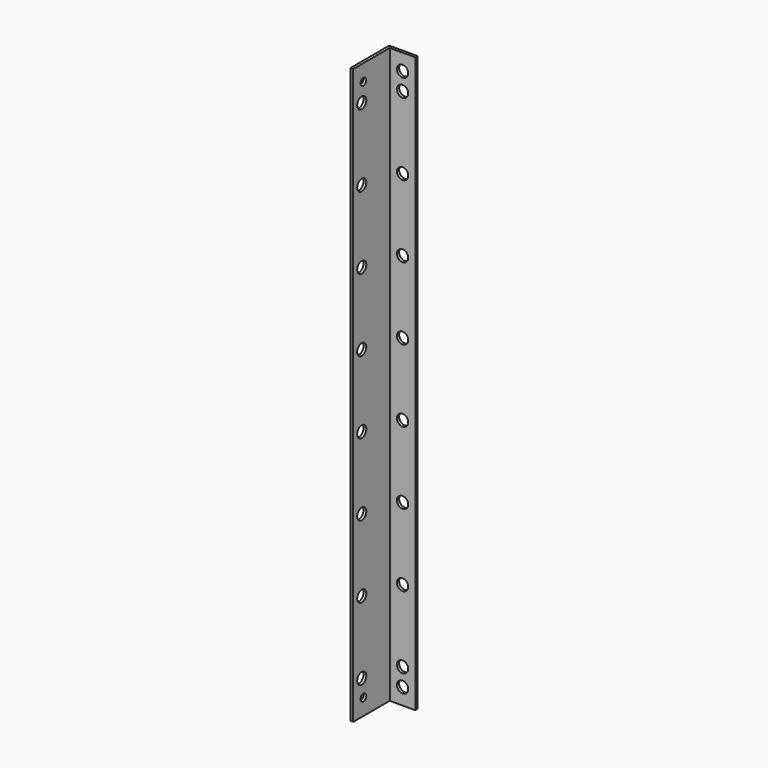
from build123d import *

# Parameters (mm, degrees)
F1_DEPTH = 405
F2_R     = 2.5
F2_R_2   = 4
F3_DEPTH = 2.001
F4_R     = 4
F5_DEPTH = 2.001


with BuildPart() as f1:
    # F0 (on Top) → F1 (new body)
    with BuildSketch(Plane.XY):
        with BuildLine():
            Line((0, 32.7), (0, 0))
            Line((0, 0), (2, 0))
            Line((2, 0), (2, 32.2))
            Line((2, 32.2), (20, 32.2))
            Line((20, 32.2), (20, 34.2))
            Line((20, 34.2), (1.5, 34.2))
            ThreePointArc((1.5, 34.2), (0.43934, 33.76066), (0, 32.7))
        make_face()
    extrude(amount=F1_DEPTH)

    # F2 (on face) → F3 (cut, through all)
    with BuildSketch(Plane.YZ.offset(2)):
        with Locations((9, 393.5)):
            Circle(F2_R)
        with Locations((7.5, 381)):
            Circle(F2_R_2)
        with Locations((7.5, 330)):
            Circle(F2_R_2)
        with Locations((7.5, 279)):
            Circle(F2_R_2)
        with Locations((7.5, 228)):
            Circle(F2_R_2)
        with Locations((7.5, 177)):
            Circle(F2_R_2)
        with Locations((7.5, 126)):
            Circle(F2_R_2)
        with Locations((7.5, 75)):
            Circle(F2_R_2)
        with Locations((7.5, 24)):
            Circle(F2_R_2)
        with Locations((9, 11.5)):
            Circle(F2_R)
    extrude(amount=-F3_DEPTH, mode=Mode.SUBTRACT)

    # F4 (on face) → F5 (cut, through all)
    with BuildSketch(Plane.XZ.offset(-32.2)):
        with Locations((11, 393.5)):
            Circle(F4_R)
        with Locations((11, 381)):
            Circle(F4_R)
        with Locations((11, 330)):
            Circle(F4_R)
        with Locations((11, 279)):
            Circle(F4_R)
        with Locations((11, 228)):
            Circle(F4_R)
        with Locations((11, 177)):
            Circle(F4_R)
        with Locations((11, 126)):
            Circle(F4_R)
        with Locations((11, 75)):
            Circle(F4_R)
        with Locations((11, 11.5)):
            Circle(F4_R)
        with Locations((11, 24)):
            Circle(F4_R)
    extrude(amount=-F5_DEPTH, mode=Mode.SUBTRACT)


solid = f1.part
